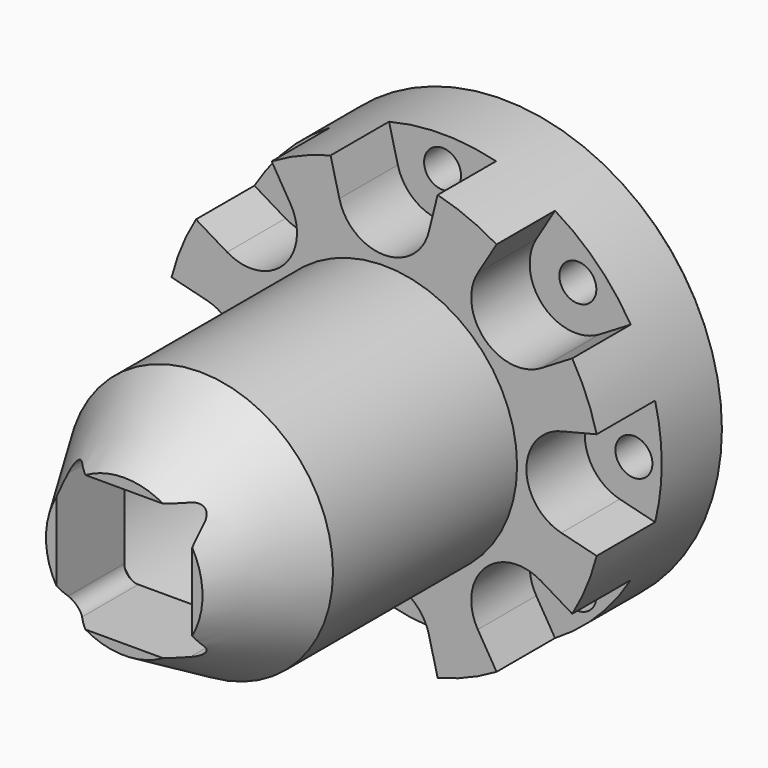
from build123d import *

# Parameters (mm, degrees)
F0_R      = 126
F1_DEPTH  = 275
F2_R      = 126
F2_R_2    = 76.45
F3_DEPTH  = 186.75
F4_R      = 10.625
F5_DEPTH  = 25
F6_DEPTH  = 169
F8_DEPTH  = 42
F9_SIZE   = 3
F10_R     = 61.65
F11_DEPTH = 218.05
F14_W     = 78.15
F14_H     = 78.15
F15_DEPTH = 60
F16_R     = 8
F17_R     = 8
F18_R     = 8
F19_R     = 8
F20_SIZE  = 8


with BuildPart() as f1:
    # F0 (on Front) → F1 (new body)
    with BuildSketch(Plane.XZ):
        Circle(F0_R)
    extrude(amount=F1_DEPTH)

    # F2 (on face) → F3 (cut)
    with BuildSketch(Plane.XZ.offset(275)):
        Circle(F2_R)
        Circle(F2_R_2, mode=Mode.SUBTRACT)
    extrude(amount=-F3_DEPTH, mode=Mode.SUBTRACT)

    # F4 (on face) → F5 (cut)
    with BuildSketch(Plane.XZ.offset(88.25)):
        with Locations((0, 108.3187091187)):
            Circle(F4_R)
        with Locations((-77.7817459305, 76.1004550493)):
            Circle(F4_R)
        with Locations((-110, -1.6812908813)):
            Circle(F4_R)
        with Locations((-77.7817459305, -79.4630368118)):
            Circle(F4_R)
        with Locations((0, -111.6812908813)):
            Circle(F4_R)
        with Locations((77.7817459305, -79.4630368118)):
            Circle(F4_R)
        with Locations((110, -1.6812908813)):
            Circle(F4_R)
        with Locations((77.7817459305, 76.1004550493)):
            Circle(F4_R)
    extrude(amount=-F5_DEPTH, mode=Mode.SUBTRACT)

    # F4 (on face) → F6 (cut)
    with BuildSketch(Plane.XZ.offset(88.25)):
        with Locations((0, 108.3187091187)):
            Circle(F4_R)
        with Locations((-77.7817459305, 76.1004550493)):
            Circle(F4_R)
        with Locations((-110, -1.6812908813)):
            Circle(F4_R)
        with Locations((-77.7817459305, -79.4630368118)):
            Circle(F4_R)
        with Locations((0, -111.6812908813)):
            Circle(F4_R)
        with Locations((77.7817459305, -79.4630368118)):
            Circle(F4_R)
        with Locations((110, -1.6812908813)):
            Circle(F4_R)
        with Locations((77.7817459305, 76.1004550493)):
            Circle(F4_R)
    extrude(amount=-F6_DEPTH, mode=Mode.SUBTRACT)

    # F7 (on face) → F8 (cut)
    with BuildSketch(Plane.XZ.offset(88.25)):
        with BuildLine():
            Line((-36.7983387241, 146.3692988564), (-25.7128367463, 101.9077788854))
            ThreePointArc((-25.7128367463, 101.9077788854), (0, 81.8187091187), (25.7128367463, 101.9077788854))
            Line((25.7128367463, 101.9077788854), (36.7983387241, 146.3692988564))
            Line((36.7983387241, 146.3692988564), (-36.7983387241, 146.3692988564))
        make_face()
        with BuildLine():
            Line((-53.8779602786, 90.2414027324), (-77.4783689307, 129.5190786271))
            Line((-77.4783689307, 129.5190786271), (-129.5190786271, 77.4783689307))
            Line((-129.5190786271, 77.4783689307), (-90.2414027324, 53.8779602786))
            ThreePointArc((-90.2414027324, 53.8779602786), (-57.8545640458, 57.8545640458), (-53.8779602786, 90.2414027324))
        make_face()
        with BuildLine():
            Line((-101.9077788854, 25.7128367463), (-146.3692988564, 36.7983387241))
            Line((-146.3692988564, 36.7983387241), (-146.3692988564, -36.7983387241))
            Line((-146.3692988564, -36.7983387241), (-101.9077788854, -25.7128367463))
            ThreePointArc((-101.9077788854, -25.7128367463), (-81.8187091187, 0), (-101.9077788854, 25.7128367463))
        make_face()
        with BuildLine():
            Line((-90.2414027324, -53.8779602786), (-129.5190786271, -77.4783689307))
            Line((-129.5190786271, -77.4783689307), (-77.4783689307, -129.5190786271))
            Line((-77.4783689307, -129.5190786271), (-53.8779602786, -90.2414027324))
            ThreePointArc((-53.8779602786, -90.2414027324), (-57.8545640458, -57.8545640458), (-90.2414027324, -53.8779602786))
        make_face()
        with BuildLine():
            Line((-25.7128367463, -101.9077788854), (-36.7983387241, -146.3692988564))
            Line((-36.7983387241, -146.3692988564), (36.7983387241, -146.3692988564))
            Line((36.7983387241, -146.3692988564), (25.7128367463, -101.9077788854))
            ThreePointArc((25.7128367463, -101.9077788854), (0, -81.8187091187), (-25.7128367463, -101.9077788854))
        make_face()
        with BuildLine():
            Line((53.8779602786, -90.2414027324), (77.4783689307, -129.5190786271))
            Line((77.4783689307, -129.5190786271), (129.5190786271, -77.4783689307))
            Line((129.5190786271, -77.4783689307), (90.2414027324, -53.8779602786))
            ThreePointArc((90.2414027324, -53.8779602786), (57.8545640458, -57.8545640458), (53.8779602786, -90.2414027324))
        make_face()
        with BuildLine():
            Line((101.9077788854, -25.7128367463), (146.3692988564, -36.7983387241))
            Line((146.3692988564, -36.7983387241), (146.3692988564, 36.7983387241))
            Line((146.3692988564, 36.7983387241), (101.9077788854, 25.7128367463))
            ThreePointArc((101.9077788854, 25.7128367463), (81.8187091187, 0), (101.9077788854, -25.7128367463))
        make_face()
        with BuildLine():
            Line((90.2414027324, 53.8779602786), (129.5190786271, 77.4783689307))
            Line((129.5190786271, 77.4783689307), (77.4783689307, 129.5190786271))
            Line((77.4783689307, 129.5190786271), (53.8779602786, 90.2414027324))
            ThreePointArc((53.8779602786, 90.2414027324), (57.8545640458, 57.8545640458), (90.2414027324, 53.8779602786))
        make_face()
    extrude(amount=-F8_DEPTH, mode=Mode.SUBTRACT)

    # F9
    f9_edges = [f1.edges().sort_by_distance(p)[0] for p in [
        (-126, 0, 0),
    ]]
    chamfer(f9_edges, length=F9_SIZE)

    # F10 (on face) → F11 (cut)
    with BuildSketch(Plane(origin=(0, 0, 0), x_dir=(-1, 0, 0), z_dir=(0, 1, 0))):
        Circle(F10_R)
    extrude(amount=-F11_DEPTH, mode=Mode.SUBTRACT)

    # F12 (on Right) → F13 (revolve, cut)
    with BuildSketch(Plane.YZ):
        Polygon((-287.4912917614, 86.0934704542), (-275, 45), (-210.72777727, 82.1075850946), align=None)
    revolve(axis=Axis((0, -206.6095604543, 0), (0, -1, 0)), mode=Mode.SUBTRACT)

    # F14 (on face) → F15 (cut)
    with BuildSketch(Plane.XZ.offset(275)):
        Rectangle(F14_W, F14_H)
    extrude(amount=-F15_DEPTH, mode=Mode.SUBTRACT)

    # F16
    f16_edges = [f1.edges().sort_by_distance(p)[0] for p in [
        (-39.075, -237.639237, -39.075),
    ]]
    fillet(f16_edges, radius=F16_R)

    # F17
    f17_edges = [f1.edges().sort_by_distance(p)[0] for p in [
        (39.075, -237.639237, 39.075),
    ]]
    fillet(f17_edges, radius=F17_R)

    # F18
    f18_edges = [f1.edges().sort_by_distance(p)[0] for p in [
        (-39.075, -237.639237, 39.075),
    ]]
    fillet(f18_edges, radius=F18_R)

    # F19
    f19_edges = [f1.edges().sort_by_distance(p)[0] for p in [
        (39.075, -237.639237, -39.075),
    ]]
    fillet(f19_edges, radius=F19_R)

    # F20
    f20_edges = [f1.edges().sort_by_distance(p)[0] for p in [
        (-39.075, -218.05, 0),
        (-36.731854, -218.05, 36.731854),
        (0, -218.05, 39.075),
        (36.731854, -218.05, 36.731854),
        (39.075, -218.05, 0),
        (0, -218.05, -39.075),
        (-36.731854, -218.05, -36.731854),
        (36.731854, -218.05, -36.731854),
    ]]
    chamfer(f20_edges, length=F20_SIZE)


solid = f1.part
